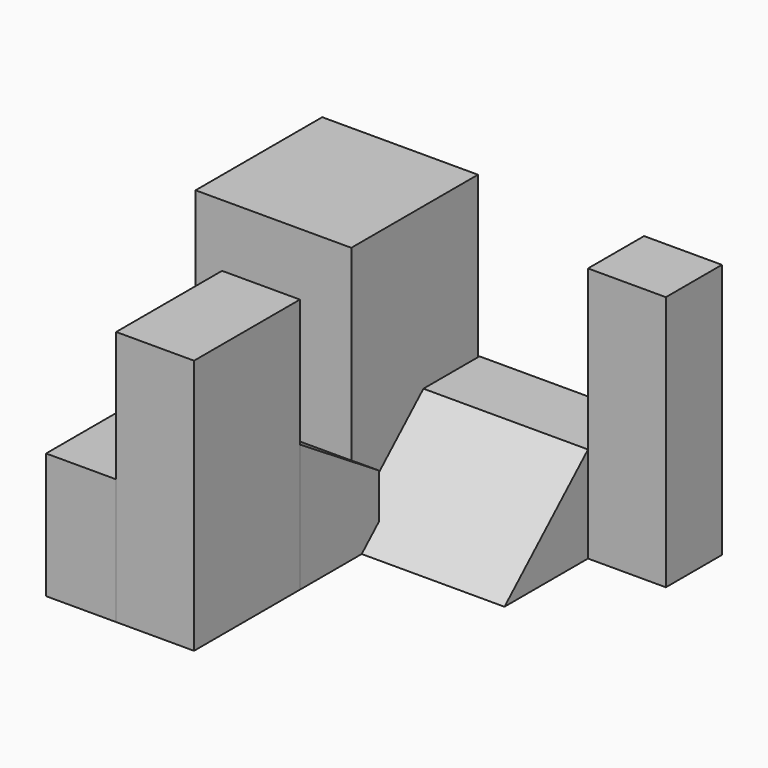
from build123d import *

# Parameters (mm, degrees)
F0_W      = 15.485808
F0_H      = 15.743904
F2_DEPTH  = 25.4
F1_W      = 7.742904
F1_H      = 13.162935
F3_DEPTH  = 25.4
F4_W      = 7.742903
F4_H      = 6.96861
F5_DEPTH  = 25.4
F6_W      = 6.968613
F6_H      = 21.938227
F7_DEPTH  = 12.49516
F9_DEPTH  = 7.59542
F11_DEPTH = 16.36661


with BuildPart() as f2:
    # F0 (on Top) → F2 (new body)
    with BuildSketch(Plane.XY):
        with Locations((-52.90984, 47.618855)):
            Rectangle(F0_W, F0_H)
    extrude(amount=F2_DEPTH)


with BuildPart() as f3:
    # F1 (on Top) → F3 (new body)
    with BuildSketch(Plane.XY):
        with Locations((-46.715517, 23.873953)):
            Rectangle(F1_W, F1_H)
    extrude(amount=F3_DEPTH)

    # F6 (on Top) → F7 (join)
    with BuildSketch(Plane.XY):
        with Locations((-54.071275, 28.261598)):
            Rectangle(F6_W, F6_H)
    extrude(amount=F7_DEPTH)


with BuildPart() as f5:
    # F4 (on Top) → F5 (new body)
    with BuildSketch(Plane.XY):
        with Locations((-24.77729, 52.006502)):
            Rectangle(F4_W, F4_H)
    extrude(amount=F5_DEPTH)


with BuildPart() as f9:
    # F8 (on face) → F9 (new body)
    with BuildSketch(Plane.YZ.offset(-42.844065)):
        Polygon((40.263098, 6.452419), (30.45542, 12.7), (30.45542, 0), (40.263098, 0), align=None)
    extrude(amount=-F9_DEPTH)


with BuildPart() as f11:
    # F10 (on face) → F11 (new body)
    with BuildSketch(Plane(origin=(-28.648742, 0, 0), x_dir=(0, -1, 0), z_dir=(-1, 0, 0))):
        Polygon((-48.522197, 9.549581), (-55.490807, 9.549581), (-55.490807, 2.580968), (-55.490807, 0), (-38.138844, 0), align=None)
    extrude(amount=F11_DEPTH)


solid = Compound([f2.part, f3.part, f5.part, f9.part, f11.part])
